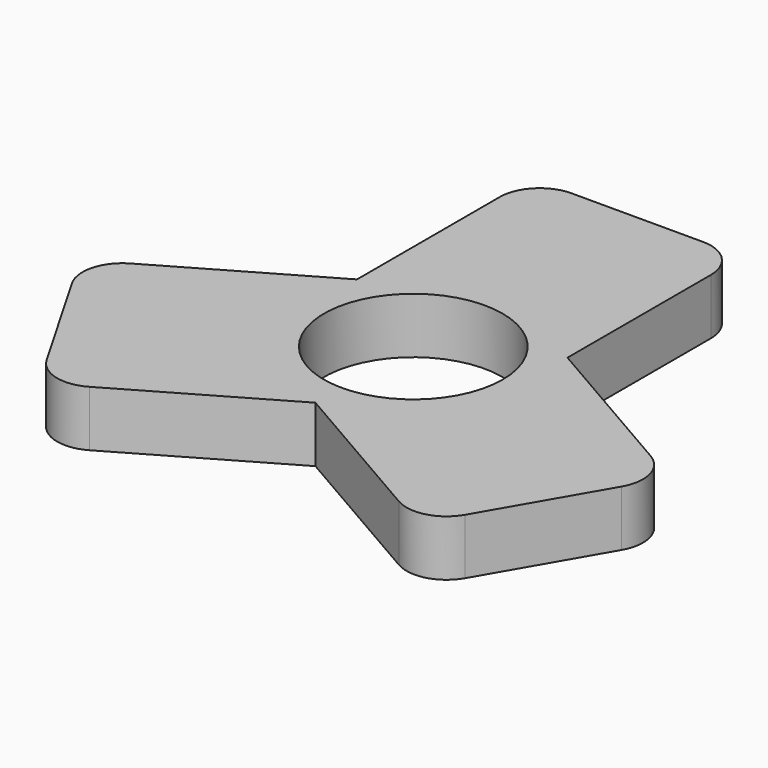
from build123d import *

# Parameters (mm, degrees)
F1_DEPTH = 7
F2_DEPTH = 7
F3_R     = 5


with BuildPart() as f1:
    # F0 (on Top) → F1 (new body)
    with BuildSketch(Plane.XY):
        Polygon((13.249245, 35.047099), (-13.2, 35.047099), (-13.2, 7.677887), (-36.976301, -6.049366), (-23.751678, -28.955085), (-0.049245, -15.270479), (23.727055, -28.997733), (36.951678, -6.092014), (13.249245, 7.592592), align=None)
        with BuildLine():
            ThreePointArc((-11.2, 0), (0, 11.2), (11.2, 0))
            ThreePointArc((11.2, 0), (0, -11.2), (-11.2, 0))
        make_face(mode=Mode.SUBTRACT)
    extrude(amount=F1_DEPTH)

    # F0 (on Top) → F2 (join)
    with BuildSketch(Plane.XY):
        Polygon((13.249245, 35.047099), (-13.2, 35.047099), (-13.2, 7.677887), (-36.976301, -6.049366), (-23.751678, -28.955085), (-0.049245, -15.270479), (23.727055, -28.997733), (36.951678, -6.092014), (13.249245, 7.592592), align=None)
        with BuildLine():
            ThreePointArc((-11.2, 0), (0, 11.2), (11.2, 0))
            ThreePointArc((11.2, 0), (0, -11.2), (-11.2, 0))
        make_face(mode=Mode.SUBTRACT)
    extrude(amount=F2_DEPTH)

    # F3
    f3_edges = [f1.edges().sort_by_distance(p)[0] for p in [
        (-13.2, 35.047099, 3.5),
        (13.249245, 35.047099, 3.5),
        (36.951678, -6.092014, 3.5),
        (23.727055, -28.997733, 3.5),
        (-23.751678, -28.955085, 3.5),
        (-36.976301, -6.049366, 3.5),
    ]]
    fillet(f3_edges, radius=F3_R)


solid = f1.part
